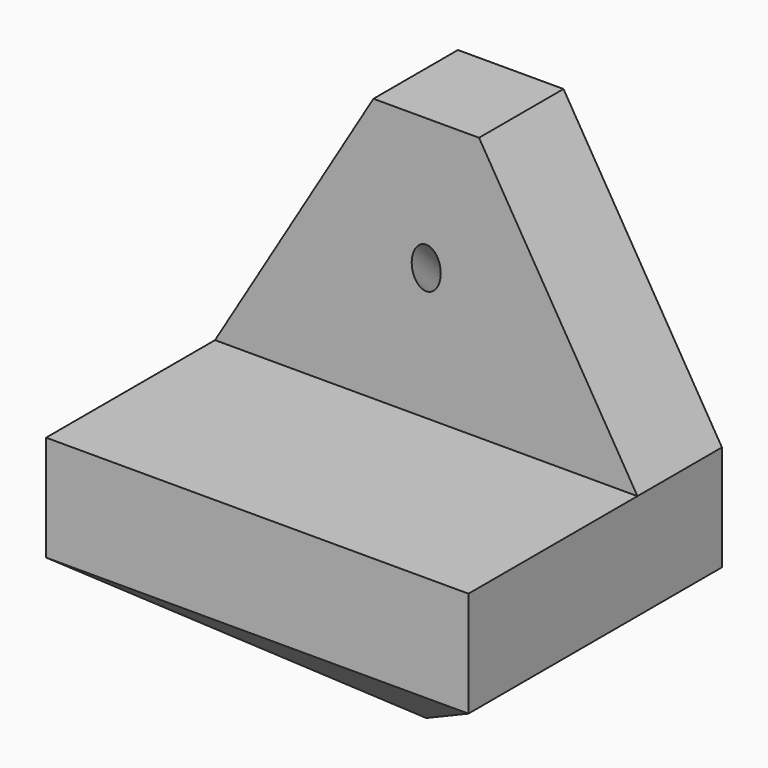
from build123d import *

# Parameters (mm, degrees)
F1_DEPTH  = 3.175
F2_W      = 25.4
F2_H      = 6.35
F3_DEPTH  = 12.7
F5_DEPTH  = 6.35
F7_DEPTH  = 6.35
F10_DEPTH = 6.35
F13_R     = 0.873125
F14_DEPTH = 25.4


with BuildPart() as f1:
    # F0 (on Front) → F1 (new body, symmetric)
    with BuildSketch(Plane.XZ):
        Polygon((3.175, 15.875), (0, 15.875), (-3.175, 15.875), (-12.7, 0), (12.7, 0), align=None)
        Polygon((12.7, -6.35), (12.7, 0), (-12.7, 0), (-12.7, -6.35), (0, -6.35), align=None)
        Polygon((0, -15.875), (12.7, -6.35), (0, -6.35), align=None)
        Polygon((0, -6.35), (-12.7, -6.35), (0, -15.875), align=None)
    extrude(amount=F1_DEPTH, both=True)

    # F2 (on face) → F3 (join)
    with BuildSketch(Plane.XZ.offset(3.175)):
        with Locations((0, -3.175)):
            Rectangle(F2_W, F2_H)
    extrude(amount=F3_DEPTH)

    # F4 (on face) → F5 (join)
    with BuildSketch(Plane(origin=(7.62, 0, -10.16), x_dir=(0.8, 0, 0.6), z_dir=(0.6, 0, -0.8))):
        Polygon((-9.525, 3.175), (6.35, 3.175), (6.35, 15.875), align=None)
    extrude(amount=-F5_DEPTH)

    # F6 (on face) → F7 (join)
    with BuildSketch(Plane(origin=(-7.62, 0, -10.16), x_dir=(0.8, 0, -0.6), z_dir=(-0.6, 0, -0.8))):
        Polygon((-6.35, 15.875), (-6.35, 3.175), (9.525, 3.175), align=None)
    extrude(amount=-F7_DEPTH)

    # F9 (on 3pt) → F10 (join)
    with BuildSketch(Plane(origin=(0, -8.763, -11.684), x_dir=(1, 0, 0), z_dir=(0, -0.6, -0.8))):
        Polygon((0, -6.9850953296), (12.700131163, 8.8898520917), (-12.699984014, 8.8898520917), align=None)
    extrude(amount=-F10_DEPTH)

    # F13 (on 3pt) → F14 (cut)
    with BuildSketch(Plane(origin=(0, -9.525, 9.525), x_dir=(1, 0, 0), z_dir=(0, -0.7071067812, 0.7071067812))):
        with Locations((0, 3.3772722036)):
            Circle(F13_R)
    extrude(amount=-F14_DEPTH, mode=Mode.SUBTRACT)


solid = f1.part
